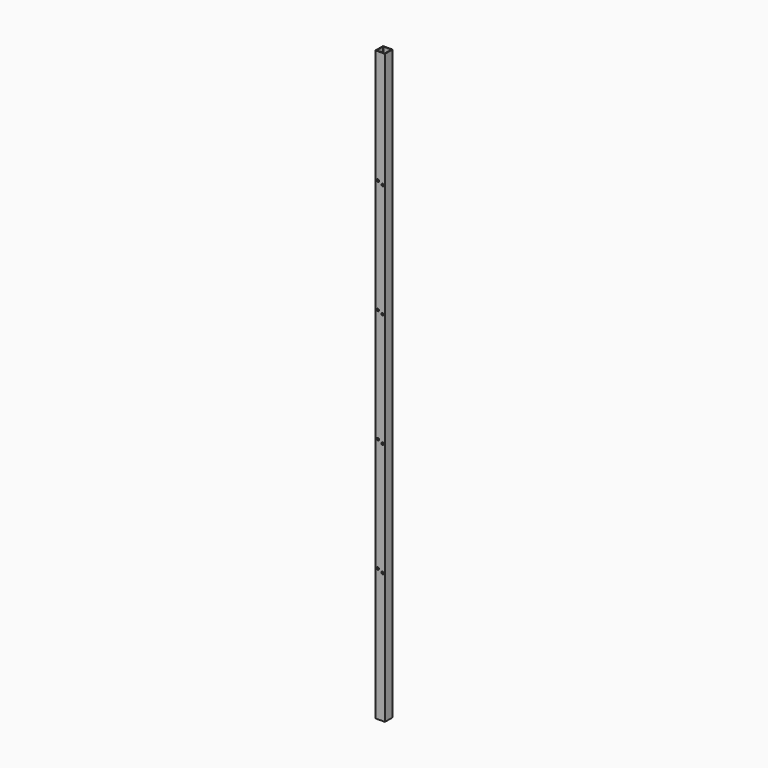
from build123d import *

# Parameters (mm, degrees)
F1_DEPTH = 1240
F3_D     = 5


with BuildPart() as f1:
    # F0 (on Top) → F1 (new body)
    with BuildSketch(Plane.XY):
        with BuildLine():
            Line((0, 19.5), (0, 0))
            Line((0, 0), (20, 0))
            Line((20, 0), (20, 20))
            Line((20, 20), (0.5, 20))
            ThreePointArc((0.5, 20), (0.146447, 19.853553), (0, 19.5))
        make_face()
        with BuildLine():
            ThreePointArc((1.5, 18), (1.646447, 18.353553), (2, 18.5))
            Line((2, 18.5), (18, 18.5))
            ThreePointArc((18, 18.5), (18.353553, 18.353553), (18.5, 18))
            Line((18.5, 18), (18.5, 2))
            ThreePointArc((18.5, 2), (18.353553, 1.646447), (18, 1.5))
            Line((18, 1.5), (2, 1.5))
            ThreePointArc((2, 1.5), (1.646447, 1.646447), (1.5, 2))
            Line((1.5, 2), (1.5, 18))
        make_face(mode=Mode.SUBTRACT)
    extrude(amount=F1_DEPTH)

    # F3 (through all)
    with Locations(Plane.XZ):
        with Locations((5, 1000), (15, 995), (5, 760), (15, 755), (5, 520), (15, 515), (5, 280), (15, 275)):
            Hole(F3_D / 2)


solid = f1.part
